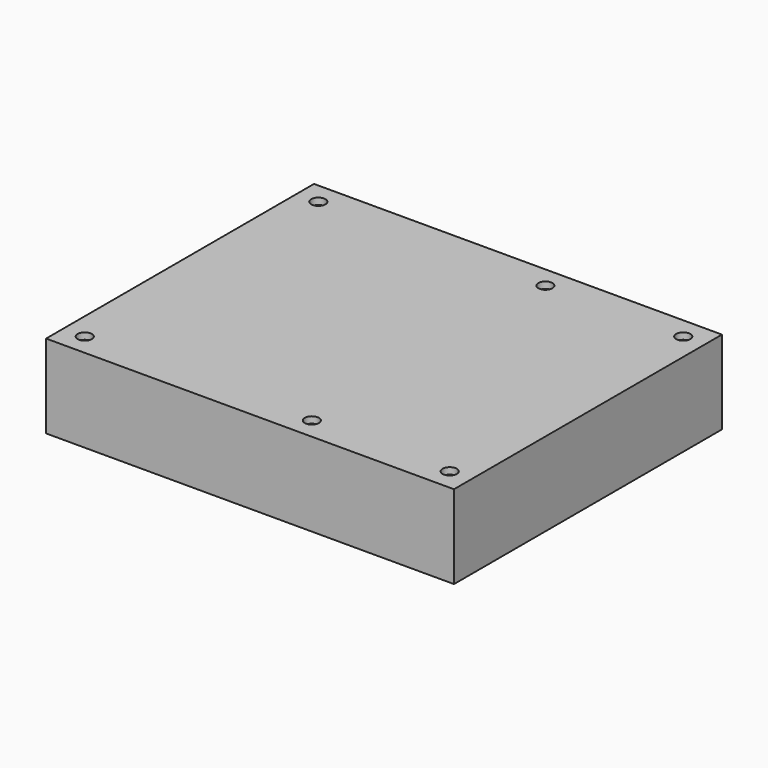
from build123d import *

# Parameters (mm, degrees)
SKETCH009_W             = 100.6
SKETCH009_H             = 82.6
PAD006_DEPTH            = 1.6
SKETCH010_W             = 100.6
SKETCH010_H             = 82.6
SKETCH010_W_2           = 98.6
SKETCH010_H_2           = 80.6
PAD007_DEPTH            = 20.6
SKETCH011_W             = 11.5
SKETCH011_H             = 9
PAD008_DEPTH            = 16.6
SKETCH012_W             = 11.5
SKETCH012_H             = 2
PAD009_DEPTH            = 24.3
SKETCH014_R             = 1.75
POCKET004_DEPTH         = 1.6
SKETCH020_W             = 11.5
SKETCH020_H             = 20
PAD013_DEPTH            = 23.9
BODY003_PLACEMENT_ANGLE = 180


with BuildPart() as part:
    # Sketch009 → Pad006 (new body)
    with BuildSketch(Plane.XY):
        Rectangle(SKETCH009_W, SKETCH009_H)
    extrude(amount=PAD006_DEPTH)

    # Sketch010 → Pad007 (join)
    with BuildSketch(Plane.XY):
        Rectangle(SKETCH010_W, SKETCH010_H)
        Rectangle(SKETCH010_W_2, SKETCH010_H_2, mode=Mode.SUBTRACT)
    extrude(amount=PAD007_DEPTH)

    # Sketch011 → Pad008 (join)
    with BuildSketch(Plane.XY):
        with Locations((-41.95, -27.2)):
            Rectangle(SKETCH011_W, SKETCH011_H)
    extrude(amount=PAD008_DEPTH)

    # Sketch012 → Pad009 (join)
    with BuildSketch(Plane.XY):
        with Locations((-41.95, -21.7)):
            Rectangle(SKETCH012_W, SKETCH012_H)
    extrude(amount=PAD009_DEPTH)

    # Sketch014 → Pocket004 (cut)
    with BuildSketch(Plane.XY):
        with Locations((-45, 36)):
            Circle(SKETCH014_R)
        with Locations((11, 36)):
            Circle(SKETCH014_R)
        with Locations((45, 36)):
            Circle(SKETCH014_R)
        with Locations((45, -36)):
            Circle(SKETCH014_R)
        with Locations((11, -36)):
            Circle(SKETCH014_R)
        with Locations((-45, -36)):
            Circle(SKETCH014_R)
    extrude(amount=POCKET004_DEPTH, mode=Mode.SUBTRACT)

    # Sketch020 → Pad013 (join)
    with BuildSketch(Plane.XY):
        with Locations((-41.95, 21.7)):
            Rectangle(SKETCH020_W, SKETCH020_H)
    extrude(amount=PAD013_DEPTH)


with BuildPart() as part_1:
    # Body003 placement: moved
    add(part.part.moved(Location((0, 0, 57.9))).rotate(Axis((0, 0, 57.9), (1, 0, 0)), BODY003_PLACEMENT_ANGLE))


solid = part_1.part
